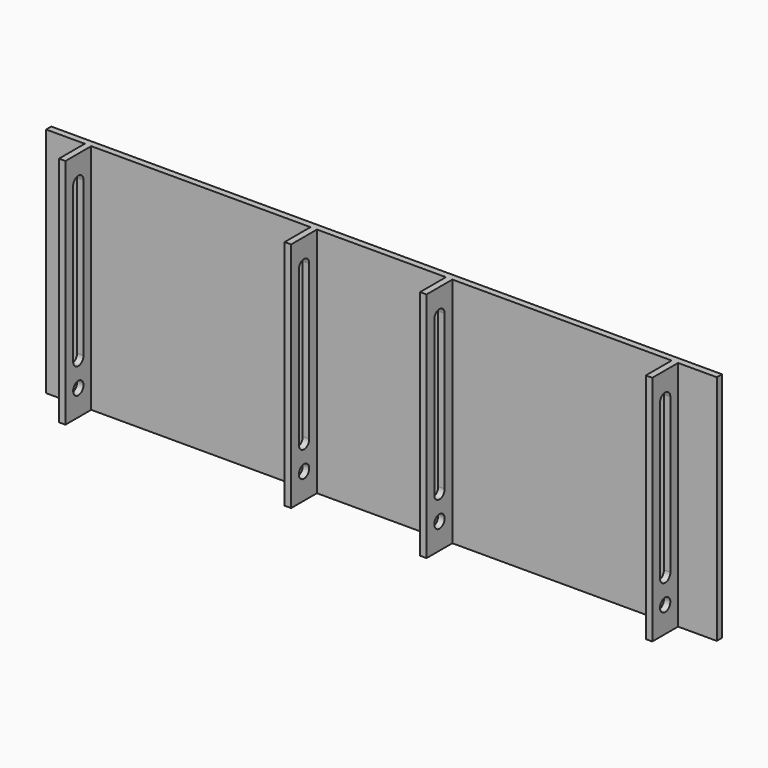
from build123d import *

# Parameters (mm, degrees)
F1_DEPTH = 6.35
F2_W     = 6.35
F2_H     = 228.6
F3_DEPTH = 31.75
F4_R     = 6.35
F5_DEPTH = 762


with BuildPart() as f1:
    # F0 (on Front) → F1 (new body)
    with BuildSketch(Plane.XZ):
        Polygon((-292.1, 114.3), (-330.2, 114.3), (-330.2, -114.3), (-292.1, -114.3), (-285.75, -114.3), (285.75, -114.3), (292.1, -114.3), (330.2, -114.3), (330.2, 114.3), (292.1, 114.3), (285.75, 114.3), (-285.75, 114.3), align=None)
    extrude(amount=F1_DEPTH)

    # F2 (on face) → F3 (join)
    with BuildSketch(Plane.XZ.offset(6.35)):
        with Locations((-288.925, 0)):
            Rectangle(F2_W, F2_H)
        with Locations((288.925, 0)):
            Rectangle(F2_W, F2_H)
        with Locations((-66.675, 0)):
            Rectangle(F2_W, F2_H)
        with Locations((66.675, 0)):
            Rectangle(F2_W, F2_H)
    extrude(amount=F3_DEPTH)

    # F4 (on face) → F5 (cut)
    with BuildSketch(Plane.YZ.offset(292.1)):
        with Locations((-22.225, -88.9)):
            Circle(F4_R)
        with BuildLine():
            Line((-28.575, 88.9), (-28.575, -63.5))
            ThreePointArc((-28.575, -63.5), (-22.092195, -69.848611), (-15.880555, -63.234449))
            Line((-15.880555, -63.234449), (-15.880555, 88.634449))
            Line((-15.880555, 88.634449), (-15.880555, 89.165551))
            ThreePointArc((-15.880555, 89.165551), (-22.357805, 95.248611), (-28.575, 88.9))
        make_face()
        with BuildLine():
            Line((-15.880555, 89.165551), (-15.880555, 88.634449))
            ThreePointArc((-15.880555, 88.634449), (-15.875, 88.9), (-15.880555, 89.165551))
        make_face()
    extrude(amount=-F5_DEPTH, mode=Mode.SUBTRACT)


solid = f1.part
